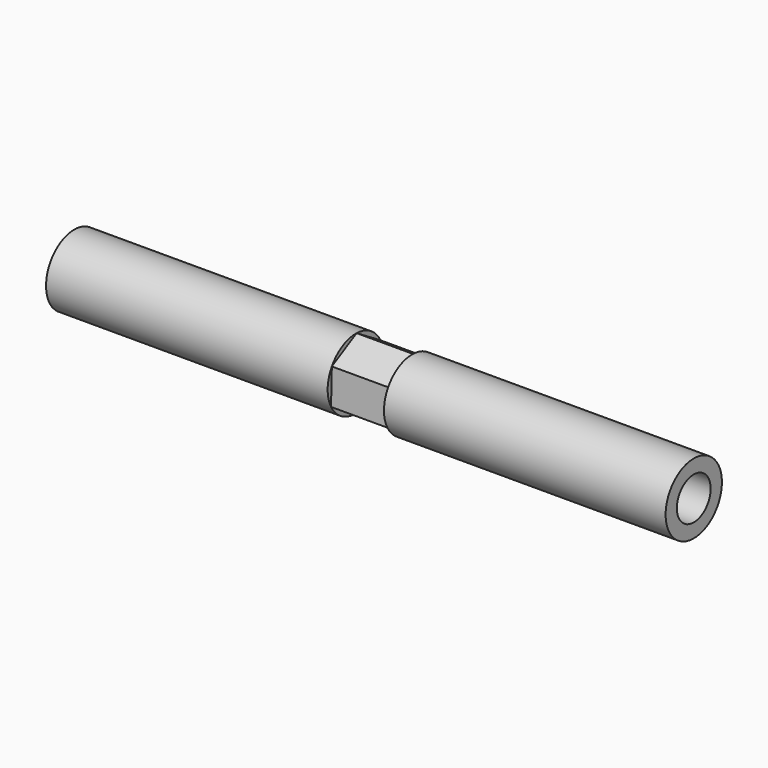
from build123d import *

# Parameters (mm, degrees)
F0_R     = 15.875
F0_R_2   = 9.525
F1_DEPTH = 127
F2_R     = 9.525
F3_DEPTH = 12.7
F5_SCALE = 0.5


with BuildPart() as f1:
    # F0 (on Right) → F1 (new body)
    with BuildSketch(Plane.YZ):
        Circle(F0_R)
        Circle(F0_R_2, mode=Mode.SUBTRACT)
    extrude(amount=F1_DEPTH)

    # F2 (on face) → F3 (join)
    with BuildSketch(Plane.YZ.offset(127)):
        Polygon((-0.4526267682, -15.8685460584), (13.5162506236, -8.3262593089), (13.9688773918, 7.5422867496), (0.4526267682, 15.8685460584), (-13.5162506236, 8.3262593089), (-13.9688773918, -7.5422867496), align=None)
        Circle(F2_R, mode=Mode.SUBTRACT)
    extrude(amount=F3_DEPTH)

    # F4: F1 across face


with BuildPart() as f1_1:
    add(f1.part)
    add(f1.part.mirror(Plane.YZ.offset(139.7)))


with BuildPart() as f1_2:
    # F5: moved
    add(f1_1.part.scale(F5_SCALE))


solid = f1_2.part
